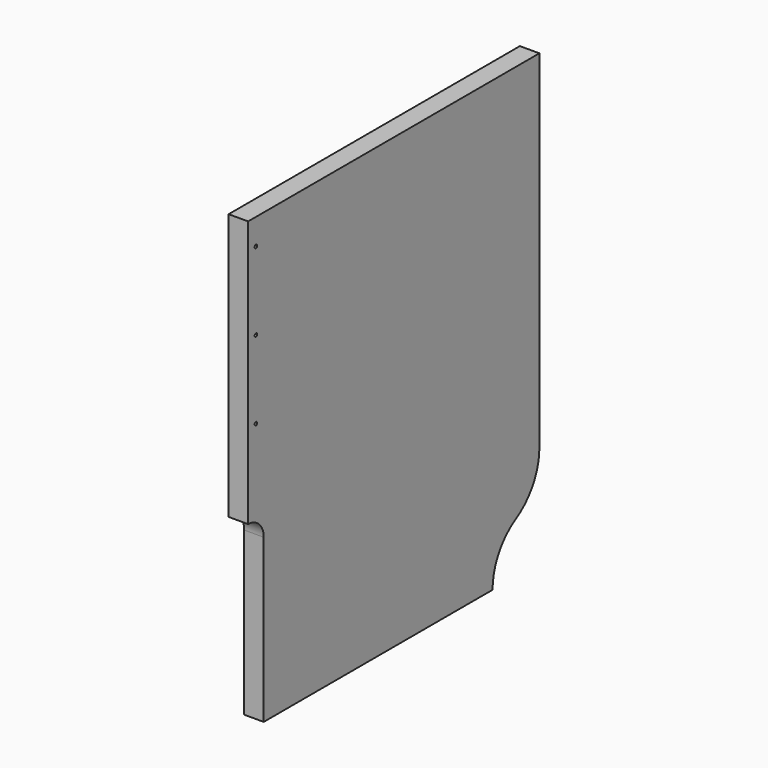
from build123d import *

# Parameters (mm, degrees)
F0_R     = 1.5875
F1_DEPTH = 19.05


with BuildPart() as f1:
    # F0 (on Right) → F1 (new body)
    with BuildSketch(Plane.YZ):
        with BuildLine():
            Line((200.365672, 276.633394), (-155.234328, 276.633394))
            Line((-155.234328, 276.633394), (-155.234328, 16.283394))
            ThreePointArc((-155.234328, 16.283394), (-141.763944, 10.703779), (-136.184328, -2.766606))
            Line((-136.184328, -2.766606), (-136.184328, -161.516606))
            Line((-136.184328, -161.516606), (143.215672, -161.516606))
            ThreePointArc((143.215672, -161.516606), (150.87232, -132.941606), (171.790672, -112.023254))
            ThreePointArc((171.790672, -112.023254), (192.709024, -91.104902), (200.365672, -62.529902))
            Line((200.365672, -62.529902), (200.365672, 276.633394))
        make_face()
        with Locations((-145.709328, 98.833394)):
            Circle(F0_R, mode=Mode.SUBTRACT)
        with Locations((-145.709328, 175.033394)):
            Circle(F0_R, mode=Mode.SUBTRACT)
        with Locations((-145.709328, 251.233394)):
            Circle(F0_R, mode=Mode.SUBTRACT)
    extrude(amount=F1_DEPTH)


solid = f1.part
